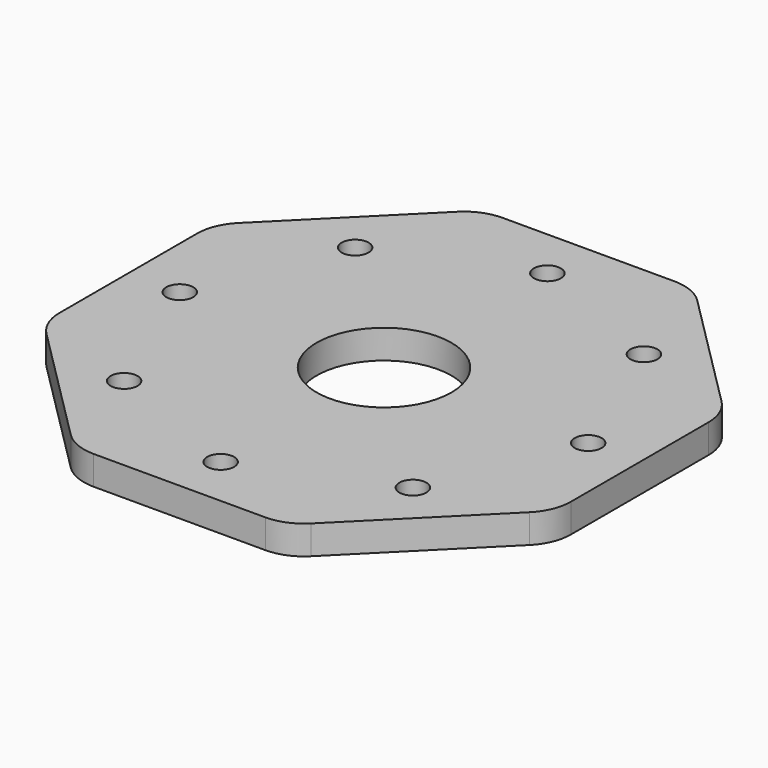
from build123d import *

# Parameters (mm, degrees)
F0_R     = 1.4
F0_R_2   = 7
F1_DEPTH = 3


with BuildPart() as f1:
    # F0 (on Top) → F1 (new body)
    with BuildSketch(Plane.XY):
        with BuildLine():
            Line((8.928932, 26.556349), (-8.928932, 26.556349))
            ThreePointArc((-8.928932, 26.556349), (-10.842349, 26.175747), (-12.464466, 25.091883))
            Line((-12.464466, 25.091883), (-25.091883, 12.464466))
            ThreePointArc((-25.091883, 12.464466), (-26.175747, 10.842349), (-26.556349, 8.928932))
            Line((-26.556349, 8.928932), (-26.556349, -8.928932))
            ThreePointArc((-26.556349, -8.928932), (-26.175747, -10.842349), (-25.091883, -12.464466))
            Line((-25.091883, -12.464466), (-12.464466, -25.091883))
            ThreePointArc((-12.464466, -25.091883), (-10.842349, -26.175747), (-8.928932, -26.556349))
            Line((-8.928932, -26.556349), (8.928932, -26.556349))
            ThreePointArc((8.928932, -26.556349), (10.842349, -26.175747), (12.464466, -25.091883))
            Line((12.464466, -25.091883), (25.091883, -12.464466))
            ThreePointArc((25.091883, -12.464466), (26.175747, -10.842349), (26.556349, -8.928932))
            Line((26.556349, -8.928932), (26.556349, 8.928932))
            ThreePointArc((26.556349, 8.928932), (26.175747, 10.842349), (25.091883, 12.464466))
            Line((25.091883, 12.464466), (12.464466, 25.091883))
            ThreePointArc((12.464466, 25.091883), (10.842349, 26.175747), (8.928932, 26.556349))
        make_face()
        with Locations((-15, -15)):
            Circle(F0_R, mode=Mode.SUBTRACT)
        with Locations((-21.213203, 0)):
            Circle(F0_R, mode=Mode.SUBTRACT)
        with Locations((0, -21.213203)):
            Circle(F0_R, mode=Mode.SUBTRACT)
        with Locations((15, -15)):
            Circle(F0_R, mode=Mode.SUBTRACT)
        Circle(F0_R_2, mode=Mode.SUBTRACT)
        with Locations((21.213203, 0)):
            Circle(F0_R, mode=Mode.SUBTRACT)
        with Locations((-15, 15)):
            Circle(F0_R, mode=Mode.SUBTRACT)
        with Locations((0, 21.213203)):
            Circle(F0_R, mode=Mode.SUBTRACT)
        with Locations((15, 15)):
            Circle(F0_R, mode=Mode.SUBTRACT)
    extrude(amount=F1_DEPTH)


solid = f1.part
